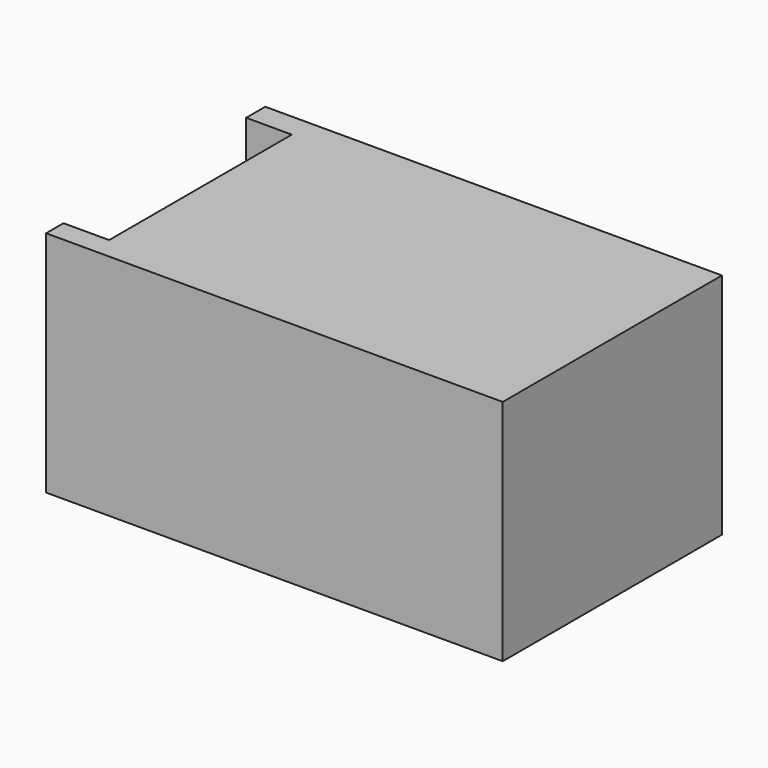
from build123d import *

# Parameters (mm, degrees)
F0_W     = 20
F0_H     = 20
F0_W_2   = 40
F0_H_2   = 30
F1_DEPTH = 60
F3_W     = 50
F3_H     = 20
F4_DEPTH = 10


with BuildPart() as f1:
    # F0 (on Front) → F1 (new body)
    with BuildSketch(Plane.XZ):
        Polygon((49.277523, 25.879864), (-50.722477, 25.879864), (-50.722477, -4.120136), (-30.722477, -4.120136), (-30.722477, -24.120136), (9.277523, -24.120136), (9.277523, 5.879864), (49.277523, 5.879864), align=None)
        with Locations((-40.722477, -14.120136)):
            Rectangle(F0_W, F0_H)
        with Locations((29.277523, -9.120136)):
            Rectangle(F0_W_2, F0_H_2)
    extrude(amount=-F1_DEPTH)

    # F3 (on face) → F4 (cut)
    with BuildSketch(Plane(origin=(-50.722477, 0, 0), x_dir=(0, -1, 0), z_dir=(-1, 0, 0))):
        with Locations((-29.763764, 15.879864)):
            Rectangle(F3_W, F3_H)
    extrude(amount=-F4_DEPTH, mode=Mode.SUBTRACT)


solid = f1.part
